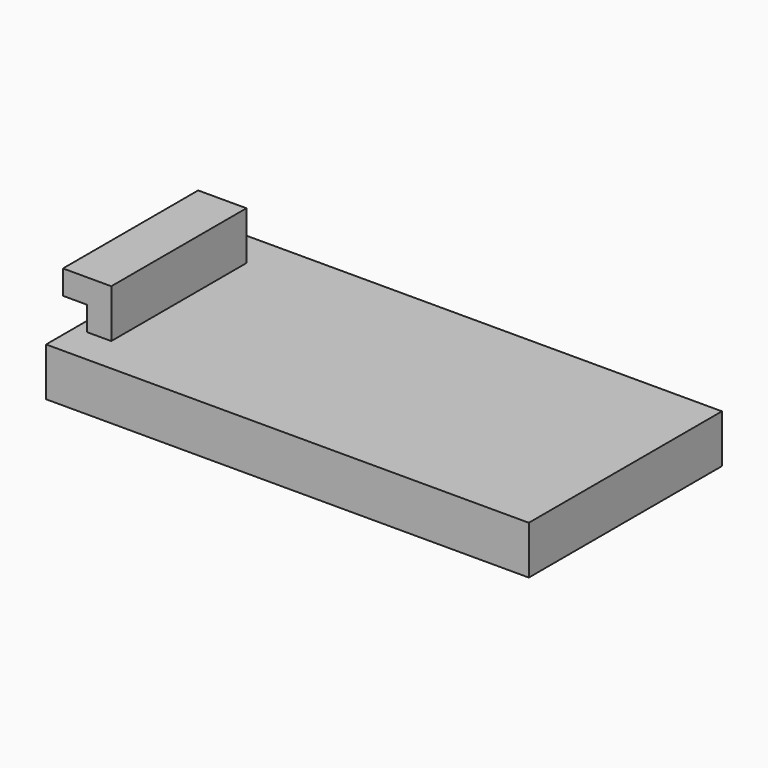
from build123d import *

# Parameters (mm, degrees)
F0_W     = 25.4
F0_H     = 12.7
F1_DEPTH = 2.54
F2_W     = 1.27
F2_H     = 8.89
F3_DEPTH = 2.54
F4_W     = 8.89
F4_H     = 1.27
F5_DEPTH = 1.27


with BuildPart() as f1:
    # F0 (on Top) → F1 (new body)
    with BuildSketch(Plane.XY):
        Rectangle(F0_W, F0_H)
    extrude(amount=F1_DEPTH)

    # F2 (on face) → F3 (join)
    with BuildSketch(Plane.XY.offset(2.54)):
        with Locations((-11.43, 0)):
            Rectangle(F2_W, F2_H)
    extrude(amount=F3_DEPTH)

    # F4 (on face) → F5 (join)
    with BuildSketch(Plane(origin=(-12.065, 0, 0), x_dir=(0, -1, 0), z_dir=(-1, 0, 0))):
        with Locations((0, 4.445)):
            Rectangle(F4_W, F4_H)
    extrude(amount=F5_DEPTH)


solid = f1.part
